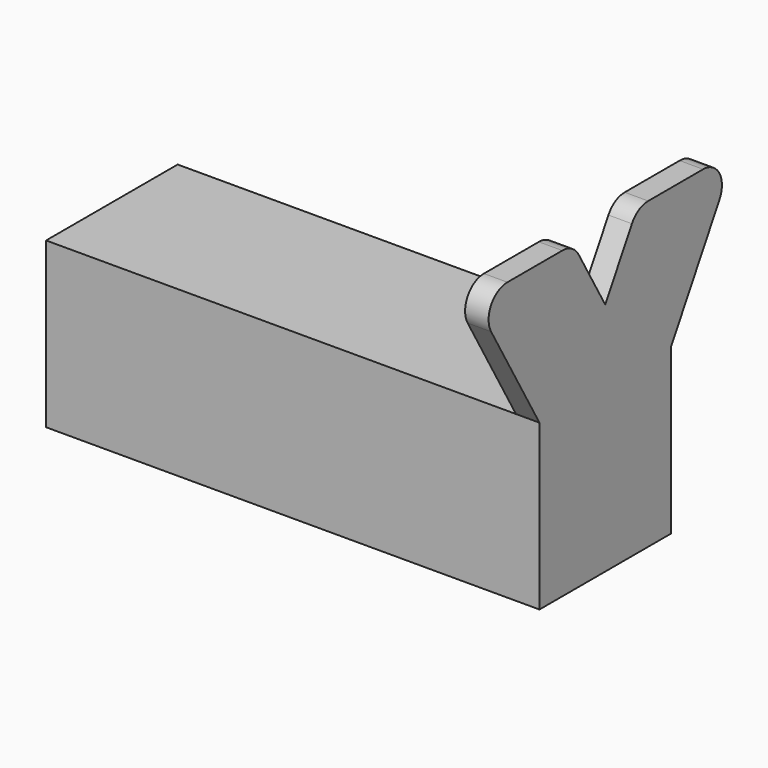
from build123d import *

# Parameters (mm, degrees)
F0_W     = 35
F0_H     = 35
F0_W_2   = 33
F0_H_2   = 33
F1_DEPTH = 100
F3_DEPTH = 5


with BuildPart() as f1:
    # F0 (on Right) → F1 (new body)
    with BuildSketch(Plane.YZ):
        Rectangle(F0_W, F0_H)
        Rectangle(F0_W_2, F0_H_2, mode=Mode.SUBTRACT)
    extrude(amount=F1_DEPTH)

    # F2 (on face) → F3 (join)
    with BuildSketch(Plane.YZ.offset(100)):
        with BuildLine():
            Line((-17.5, 17.5), (-17.5, -17.5))
            Line((-17.5, -17.5), (17.5, -17.5))
            Line((17.5, -17.5), (17.5, 17.5))
            Line((17.5, 17.5), (30.365003, 39.782839))
            ThreePointArc((30.365003, 39.782839), (30.365003, 44.782839), (26.034876, 47.282839))
            Line((26.034876, 47.282839), (11.421628, 47.282839))
            ThreePointArc((11.421628, 47.282839), (8.921628, 46.612966), (7.0915, 44.782839))
            Line((7.0915, 44.782839), (0, 32.5))
            Line((0, 32.5), (-7.0915, 44.782839))
            ThreePointArc((-7.0915, 44.782839), (-8.921628, 46.612966), (-11.421628, 47.282839))
            Line((-11.421628, 47.282839), (-26.034876, 47.282839))
            ThreePointArc((-26.034876, 47.282839), (-30.365003, 44.782839), (-30.365003, 39.782839))
            Line((-30.365003, 39.782839), (-17.5, 17.5))
        make_face()
    extrude(amount=F3_DEPTH)


solid = f1.part
